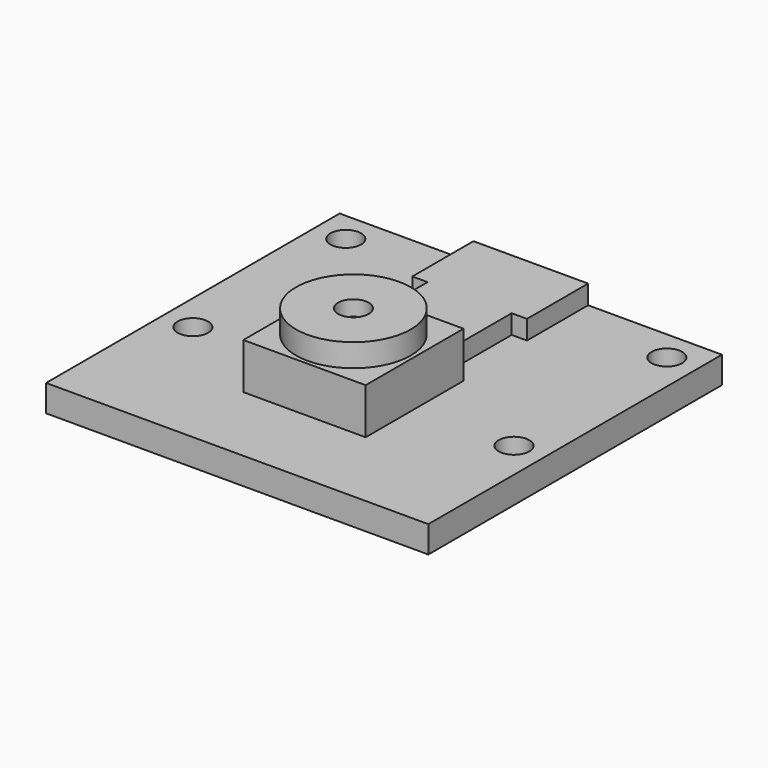
from build123d import *

# Parameters (mm, degrees)
SKETCH_W        = 25
SKETCH_H        = 24
PAD_DEPTH       = 1.75
SKETCH001_R     = 1
POCKET_DEPTH    = 1.75
SKETCH002_W     = 8
SKETCH002_H     = 8
PAD001_DEPTH    = 3
SKETCH003_R     = 3.75
PAD002_DEPTH    = 1.5
SKETCH004_R     = 1
POCKET001_DEPTH = 1
PAD003_DEPTH    = 1.25


with BuildPart() as part:
    # Sketch → Pad (new body)
    with BuildSketch(Plane.XY):
        Rectangle(SKETCH_W, SKETCH_H)
    extrude(amount=PAD_DEPTH)

    # Sketch001 (on Face6 of Pad) → Pocket (cut)
    with BuildSketch(Plane.XY.offset(1.75)):
        with Locations((-10.5, 10)):
            Circle(SKETCH001_R)
        with Locations((10.5, 10)):
            Circle(SKETCH001_R)
        with Locations((-10.5, -2.5)):
            Circle(SKETCH001_R)
        with Locations((10.5, -2.5)):
            Circle(SKETCH001_R)
    extrude(amount=-POCKET_DEPTH, mode=Mode.SUBTRACT)

    # Sketch002 (on Face5 of Pocket) → Pad001 (join)
    with BuildSketch(Plane.XY.offset(1.75)):
        with Locations((0, -2.5)):
            Rectangle(SKETCH002_W, SKETCH002_H)
    extrude(amount=PAD001_DEPTH)

    # Sketch003 (on Face15 of Pad001) → Pad002 (join)
    with BuildSketch(Plane.XY.offset(4.75)):
        with Locations((0, -2.5)):
            Circle(SKETCH003_R)
    extrude(amount=PAD002_DEPTH)

    # Sketch004 (on Face17 of Pad002) → Pocket001 (cut)
    with BuildSketch(Plane.XY.offset(6.25)):
        with Locations((0, -2.5)):
            Circle(SKETCH004_R)
    extrude(amount=-POCKET001_DEPTH, mode=Mode.SUBTRACT)

    # Sketch005 (on Face5 of Pocket001) → Pad003 (join)
    with BuildSketch(Plane.XY.offset(1.75)):
        Polygon((-3.75, 12), (-3.75, 7), (-2.75, 7), (-2.75, 1.5), (2.75, 1.5), (2.75, 7), (3.75, 7), (3.75, 12), align=None)
    extrude(amount=PAD003_DEPTH)


solid = part.part
